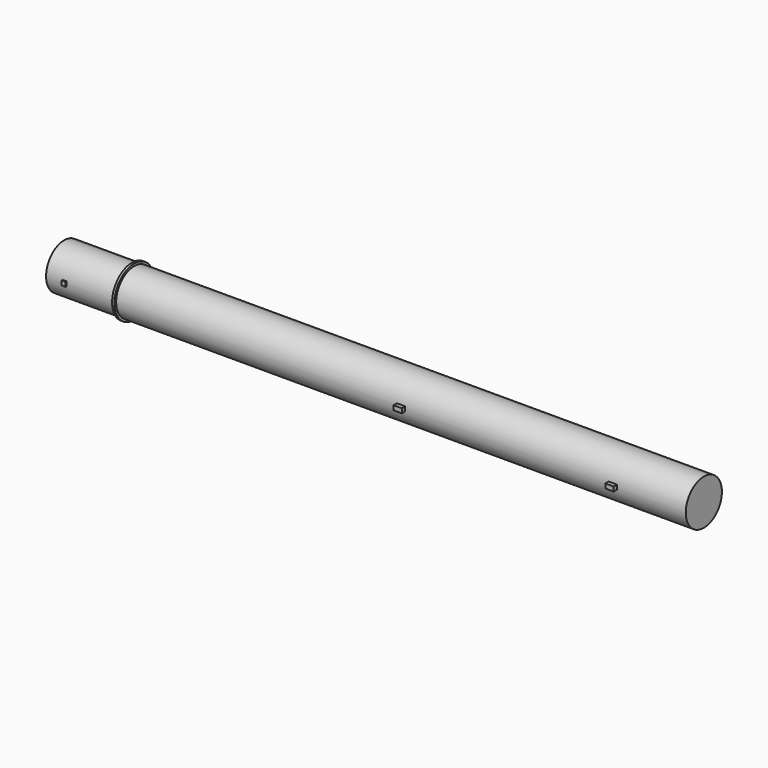
from build123d import *

# Parameters (mm, degrees)
F2_W     = 1.6857574282
F2_H     = 0.5
F2_W_2   = 3.7
F2_H_2   = 1.8
F3_DEPTH = 1


with BuildPart() as f1:
    # F0 (on Front) → F1 (revolve)
    with BuildSketch(Plane.XZ):
        Polygon((67.8396956921, 10), (-34.1603043079, 10), (-34.1603043079, 11), (-35.1603043079, 11), (-35.1603043079, 10), (-65.1603043079, 10), (-65.1603043079, 0), (0, 0), (102, 0), (217.8396956921, 0), (217.8396956921, 10), (176.3, 10), (86.3, 10), align=None)
    revolve(axis=Axis((-32.580152154, 0, 0), (1, 0, 0)))

    # F2 (on Top) → F3 (join, symmetric)
    with BuildSketch(Plane.XY):
        with Locations((-57.0031830221, -10.25)):
            Rectangle(F2_W, F2_H)
        with Locations((91.85, -10.9)):
            Rectangle(F2_W_2, F2_H_2)
        with Locations((185.55, -10.9)):
            Rectangle(F2_W_2, F2_H_2)
    extrude(amount=F3_DEPTH, both=True)


solid = f1.part
